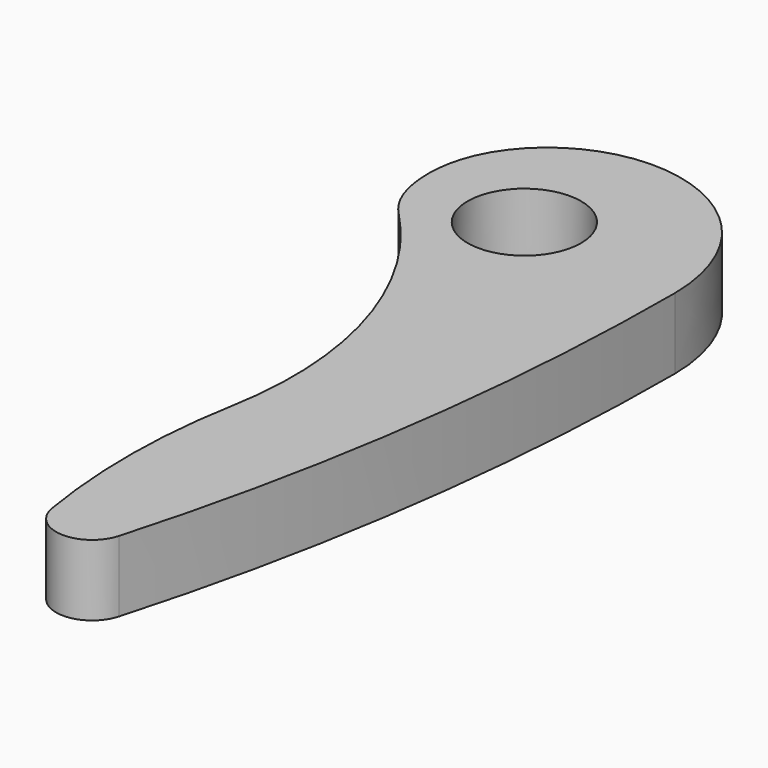
from build123d import *

# Parameters (mm, degrees)
F1_R     = 12
F2_DEPTH = 15


with BuildPart() as f2:
    # F1 (on face) → F2 (new body)
    with BuildSketch(Plane.XY):
        with BuildLine():
            ThreePointArc((17.8272945993, -129.4724747228), (30.8870152167, -67.4921341785), (35.2682027622, -4.3025455402))
            add(Edge.make_bspline(
                [(35.2682027622, -4.3025455402), (35.2682027622, -2.8630395725), (34.7940906326, 4.5484558025), (29.9290871814, 17.4019463757), (16.1515405759, 28.168861008), (-0.0978770248, 30.3942939385), (-14.2158344876, 24.4556370199), (-22.8083044544, 13.0367090709), (-23.9004306853, -0.1517972714), (-21.1020014845, -7.483800271), (-18.1865334795, -10.5)],
                knots=[0.1989185015, 0.1989185015, 0.1989185015, 0.1989185015, 0.2248112778, 0.3326230217, 0.4372558817, 0.5386130078, 0.6365884477, 0.7310656976, 0.8219159332, 0.9089958388, 0.9089958388, 0.9089958388, 0.9089958388], degree=3))
            ThreePointArc((-18.1865334795, -10.5), (1.139918362, -43.3697806371), (3.3405694731, -81.4367131981))
            ThreePointArc((3.3405694731, -81.4367131981), (1.1378022248, -105.0250778662), (3.0062398837, -128.6422765143))
            ThreePointArc((3.0062398837, -128.6422765143), (10.0845593286, -134.9880938543), (17.8272945993, -129.4724747228))
        make_face()
        Circle(F1_R, mode=Mode.SUBTRACT)
    extrude(amount=F2_DEPTH)


solid = f2.part
